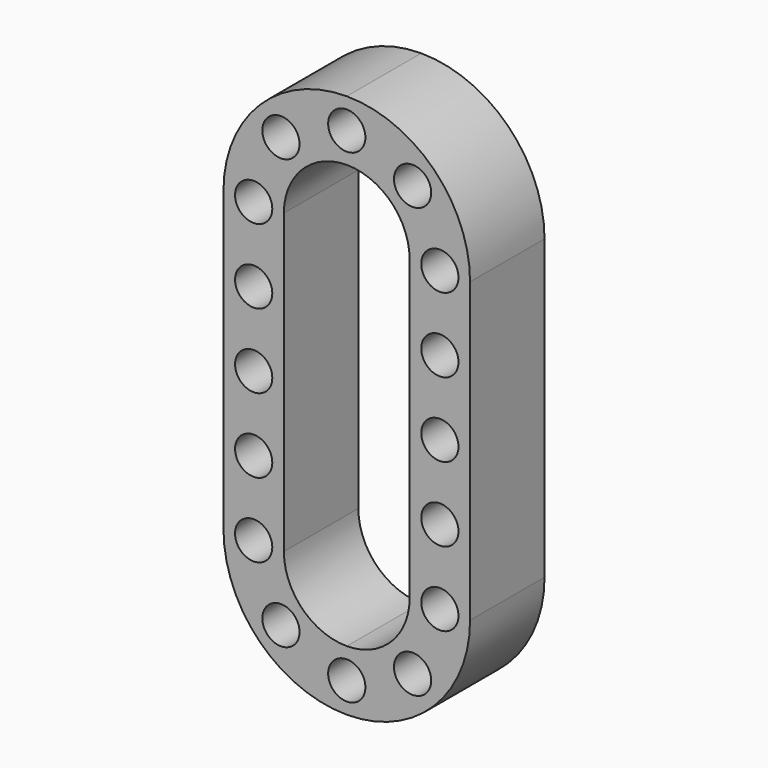
from build123d import *

# Parameters (mm, degrees)
F0_R     = 5
F1_DEPTH = 25
F2_DEPTH = 25


with BuildPart() as f1:
    # F0 (on Front) → F1 (new body)
    with BuildSketch(Plane.XZ):
        with BuildLine():
            ThreePointArc((33.111824, 44.839342), (23.413595, 68.252937), (0, 77.951166))
            ThreePointArc((0, 77.951166), (-23.413595, 68.252937), (-33.111824, 44.839342))
            Line((-33.111824, 44.839342), (-33.111824, 4.839342))
            Line((-33.111824, 4.839342), (-33.111824, -35.160658))
            ThreePointArc((-33.111824, -35.160658), (-23.413595, -58.574253), (0, -68.272482))
            ThreePointArc((0, -68.272482), (23.413595, -58.574253), (33.111824, -35.160658))
            Line((33.111824, -35.160658), (33.111824, 4.839342))
            Line((33.111824, 4.839342), (33.111824, 44.839342))
        make_face()
        with Locations((-17.67767, -52.838328)):
            Circle(F0_R, mode=Mode.SUBTRACT)
        with Locations((-25, -35.160658)):
            Circle(F0_R, mode=Mode.SUBTRACT)
        with Locations((-25, -15.160658)):
            Circle(F0_R, mode=Mode.SUBTRACT)
        with Locations((0, -60.160658)):
            Circle(F0_R, mode=Mode.SUBTRACT)
        with Locations((17.67767, -52.838328)):
            Circle(F0_R, mode=Mode.SUBTRACT)
        with Locations((25, -35.160658)):
            Circle(F0_R, mode=Mode.SUBTRACT)
        with Locations((25, -15.160658)):
            Circle(F0_R, mode=Mode.SUBTRACT)
        with Locations((-25, 4.839342)):
            Circle(F0_R, mode=Mode.SUBTRACT)
        with Locations((-25, 24.839342)):
            Circle(F0_R, mode=Mode.SUBTRACT)
        with Locations((-25, 44.839342)):
            Circle(F0_R, mode=Mode.SUBTRACT)
        with Locations((-17.67767, 62.517011)):
            Circle(F0_R, mode=Mode.SUBTRACT)
        with BuildLine():
            ThreePointArc((-16.888176, 44.839342), (-11.941744, 56.781086), (0, 61.727518))
            ThreePointArc((0, 61.727518), (11.941744, 56.781086), (16.888176, 44.839342))
            Line((16.888176, 44.839342), (16.888176, 4.839342))
            Line((16.888176, 4.839342), (16.888176, -35.160658))
            ThreePointArc((16.888176, -35.160658), (11.941744, -47.102402), (0, -52.048834))
            ThreePointArc((0, -52.048834), (-11.941744, -47.102402), (-16.888176, -35.160658))
            Line((-16.888176, -35.160658), (-16.888176, 4.839342))
            Line((-16.888176, 4.839342), (-16.888176, 44.839342))
        make_face(mode=Mode.SUBTRACT)
        with Locations((25, 4.839342)):
            Circle(F0_R, mode=Mode.SUBTRACT)
        with Locations((25, 24.839342)):
            Circle(F0_R, mode=Mode.SUBTRACT)
        with Locations((0, 69.839342)):
            Circle(F0_R, mode=Mode.SUBTRACT)
        with Locations((25, 44.839342)):
            Circle(F0_R, mode=Mode.SUBTRACT)
        with Locations((17.67767, 62.517011)):
            Circle(F0_R, mode=Mode.SUBTRACT)
    extrude(amount=F1_DEPTH)

    # F0 (on Front) → F2 (join)
    with BuildSketch(Plane.XZ):
        with BuildLine():
            ThreePointArc((33.111824, 44.839342), (23.413595, 68.252937), (0, 77.951166))
            ThreePointArc((0, 77.951166), (-23.413595, 68.252937), (-33.111824, 44.839342))
            Line((-33.111824, 44.839342), (-33.111824, 4.839342))
            Line((-33.111824, 4.839342), (-33.111824, -35.160658))
            ThreePointArc((-33.111824, -35.160658), (-23.413595, -58.574253), (0, -68.272482))
            ThreePointArc((0, -68.272482), (23.413595, -58.574253), (33.111824, -35.160658))
            Line((33.111824, -35.160658), (33.111824, 4.839342))
            Line((33.111824, 4.839342), (33.111824, 44.839342))
        make_face()
        with Locations((-17.67767, -52.838328)):
            Circle(F0_R, mode=Mode.SUBTRACT)
        with Locations((-25, -35.160658)):
            Circle(F0_R, mode=Mode.SUBTRACT)
        with Locations((-25, -15.160658)):
            Circle(F0_R, mode=Mode.SUBTRACT)
        with Locations((0, -60.160658)):
            Circle(F0_R, mode=Mode.SUBTRACT)
        with Locations((17.67767, -52.838328)):
            Circle(F0_R, mode=Mode.SUBTRACT)
        with Locations((25, -35.160658)):
            Circle(F0_R, mode=Mode.SUBTRACT)
        with Locations((25, -15.160658)):
            Circle(F0_R, mode=Mode.SUBTRACT)
        with Locations((-25, 4.839342)):
            Circle(F0_R, mode=Mode.SUBTRACT)
        with Locations((-25, 24.839342)):
            Circle(F0_R, mode=Mode.SUBTRACT)
        with Locations((-25, 44.839342)):
            Circle(F0_R, mode=Mode.SUBTRACT)
        with Locations((-17.67767, 62.517011)):
            Circle(F0_R, mode=Mode.SUBTRACT)
        with BuildLine():
            ThreePointArc((-16.888176, 44.839342), (-11.941744, 56.781086), (0, 61.727518))
            ThreePointArc((0, 61.727518), (11.941744, 56.781086), (16.888176, 44.839342))
            Line((16.888176, 44.839342), (16.888176, 4.839342))
            Line((16.888176, 4.839342), (16.888176, -35.160658))
            ThreePointArc((16.888176, -35.160658), (11.941744, -47.102402), (0, -52.048834))
            ThreePointArc((0, -52.048834), (-11.941744, -47.102402), (-16.888176, -35.160658))
            Line((-16.888176, -35.160658), (-16.888176, 4.839342))
            Line((-16.888176, 4.839342), (-16.888176, 44.839342))
        make_face(mode=Mode.SUBTRACT)
        with Locations((25, 4.839342)):
            Circle(F0_R, mode=Mode.SUBTRACT)
        with Locations((25, 24.839342)):
            Circle(F0_R, mode=Mode.SUBTRACT)
        with Locations((0, 69.839342)):
            Circle(F0_R, mode=Mode.SUBTRACT)
        with Locations((25, 44.839342)):
            Circle(F0_R, mode=Mode.SUBTRACT)
        with Locations((17.67767, 62.517011)):
            Circle(F0_R, mode=Mode.SUBTRACT)
    extrude(amount=F2_DEPTH)


solid = f1.part
